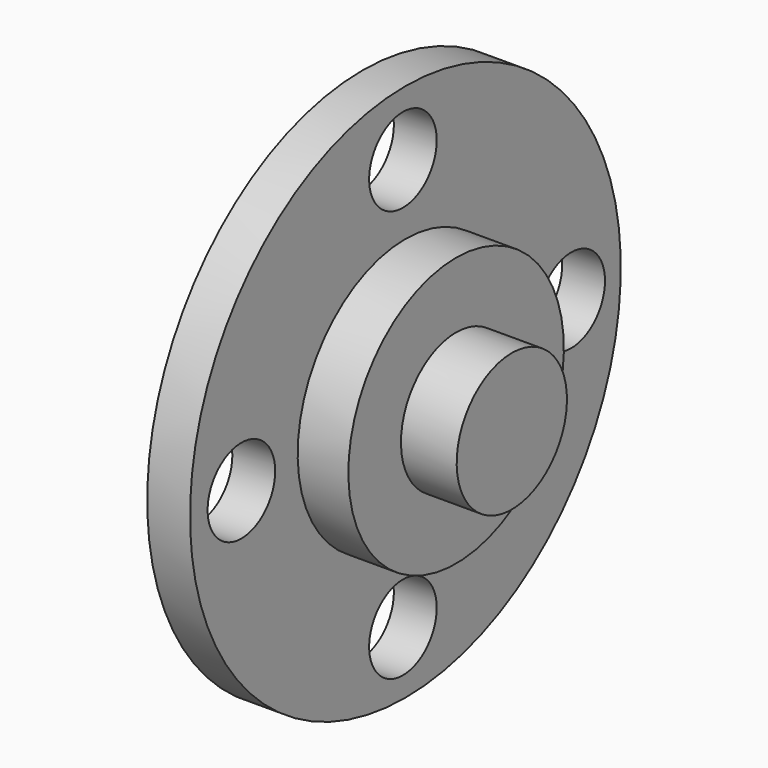
from build123d import *

# Parameters (mm, degrees)
F2_R     = 10.16
F3_DEPTH = 25.4


with BuildPart() as f1:
    # F0 (on Front) → F1 (revolve)
    with BuildSketch(Plane.XZ):
        Polygon((10.309819, 64.763088), (0, 64.763088), (0, 0), (10.309819, 0), (10.309819, 32.381544), align=None)
        Polygon((10.309819, 32.381544), (10.309819, 0), (22.507349, 0), (22.507349, 16.553793), (22.507349, 32.381544), align=None)
        Polygon((22.507349, 16.553793), (22.507349, 0), (22.507349, -0.032821), (35.916625, -0.032821), (35.916625, 16.553793), align=None)
    revolve(axis=Axis((29.211987, 0, -0.032821), (-1, 0, 0)))

    # F2 (on face) → F3 (cut)
    with BuildSketch(Plane.YZ.offset(10.309819)):
        with Locations((-0.746979, 49.448771)):
            Circle(F2_R)
        with Locations((-0.746979, -49.611229)):
            Circle(F2_R)
        with Locations((49.879547, -0.887719)):
            Circle(F2_R)
        with Locations((-49.343131, -0.887719)):
            Circle(F2_R)
    extrude(amount=-F3_DEPTH, mode=Mode.SUBTRACT)


solid = f1.part
